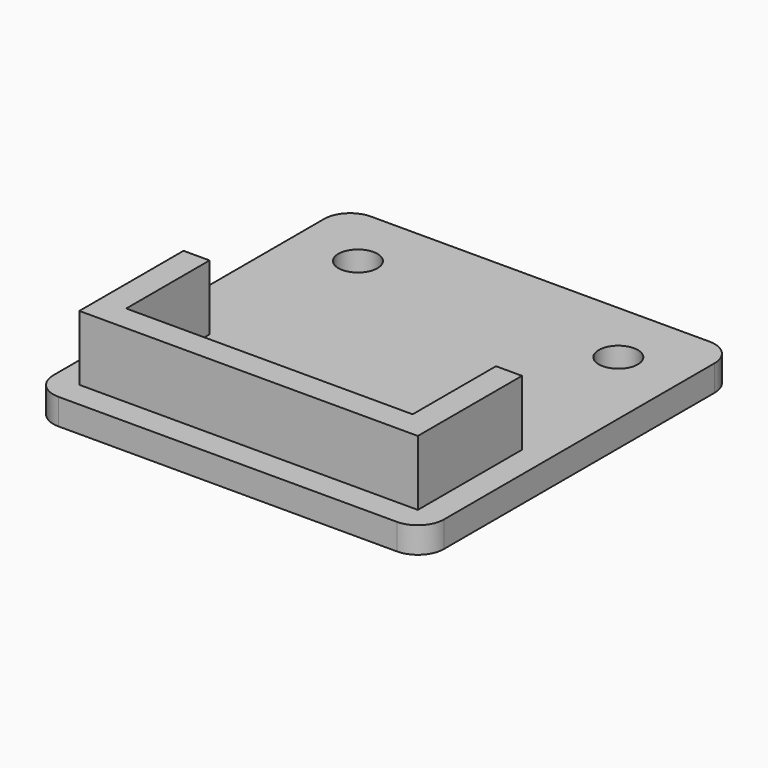
from build123d import *

# Parameters (mm, degrees)
SKETCH_W      = 30
SKETCH_H      = 30
PAD_DEPTH     = 2
SKETCH001_R   = 1.5
POCKET_DEPTH  = 5
SKETCH002_W   = 2
SKETCH002_H   = 10
SKETCH002_W_2 = 22
SKETCH002_H_2 = 2
PAD001_DEPTH  = 5
FILLET_R      = 2
FILLET001_R   = 2
FILLET002_R   = 2
FILLET003_R   = 2


with BuildPart() as part:
    # Sketch → Pad (new body)
    with BuildSketch(Plane.XY):
        with Locations((15, 15)):
            Rectangle(SKETCH_W, SKETCH_H)
    extrude(amount=PAD_DEPTH)

    # Sketch001 → Pocket (cut)
    with BuildSketch(Plane.XY.offset(2)):
        with Locations((5, 25)):
            Circle(SKETCH001_R)
        with Locations((25, 25)):
            Circle(SKETCH001_R)
    extrude(amount=-POCKET_DEPTH, mode=Mode.SUBTRACT)

    # Sketch002 → Pad001 (new body)
    with BuildSketch(Plane.XY.offset(2)):
        with Locations((3, 7)):
            Rectangle(SKETCH002_W, SKETCH002_H)
        with Locations((27, 7)):
            Rectangle(SKETCH002_W, SKETCH002_H)
        with Locations((15, 3)):
            Rectangle(SKETCH002_W_2, SKETCH002_H_2)
    extrude(amount=PAD001_DEPTH)

    # Fillet
    fillet_edges = [part.edges().sort_by_distance(p)[0] for p in [
        (30, 30, 1),
    ]]
    fillet(fillet_edges, radius=FILLET_R)

    # Fillet001
    fillet001_edges = [part.edges().sort_by_distance(p)[0] for p in [
        (30, 0, 1),
    ]]
    fillet(fillet001_edges, radius=FILLET001_R)

    # Fillet002
    fillet002_edges = [part.edges().sort_by_distance(p)[0] for p in [
        (0, 0, 1),
    ]]
    fillet(fillet002_edges, radius=FILLET002_R)

    # Fillet003
    fillet003_edges = [part.edges().sort_by_distance(p)[0] for p in [
        (0, 30, 1),
    ]]
    fillet(fillet003_edges, radius=FILLET003_R)


solid = part.part
